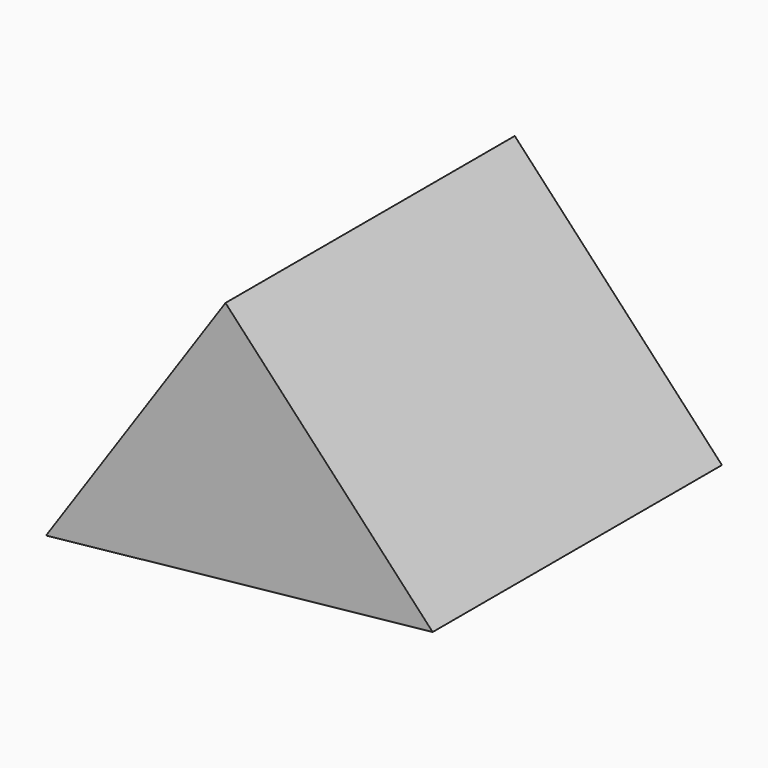
from build123d import *

# Parameters (mm, degrees)
F1_START = -25.4
F1_DEPTH = 50.8


with BuildPart() as f1:
    # F0 (on Front) → F1 (new body)
    with BuildSketch(Plane.XZ.offset(F1_START)):
        Polygon((-40.2538828218, -5.2392042407), (-43.8255531222, 28.6916662135), (-69.0307091341, -8.2683436204), align=None)
        Polygon((-14.7207663044, -2.5515079712), (-43.8255531222, 28.6916662135), (-40.2538828218, -5.2392042407), align=None)
    extrude(amount=-F1_DEPTH)


solid = f1.part
